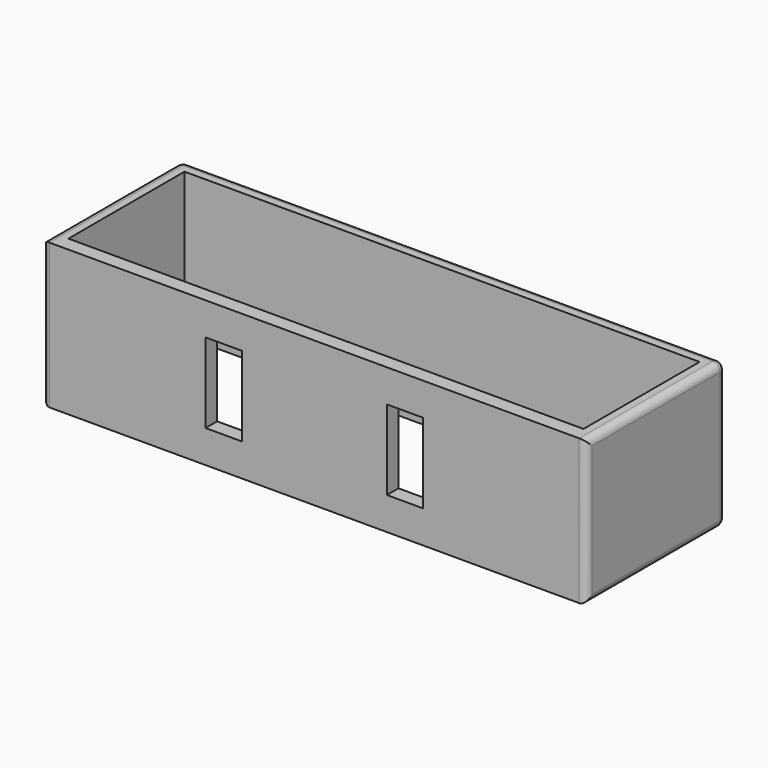
from build123d import *

# Parameters (mm, degrees)
F0_W     = 75
F0_H     = 20
F1_DEPTH = 24
F2_W     = 71
F2_H     = 20
F3_DEPTH = 20
F5_W     = 5
F5_H     = 11
F6_DEPTH = 5
F7_R     = 1


with BuildPart() as f1:
    # F0 (on Front) → F1 (new body)
    with BuildSketch(Plane.XZ):
        with Locations((37.5, -10)):
            Rectangle(F0_W, F0_H)
    extrude(amount=F1_DEPTH)

    # F2 (on Top) → F3 (cut, symmetric)
    with BuildSketch(Plane.XY):
        with Locations((37.5, -12)):
            Rectangle(F2_W, F2_H)
    extrude(amount=F3_DEPTH, both=True, mode=Mode.SUBTRACT)

    # F5 (on offset) → F6 (cut)
    with BuildSketch(Plane(origin=(0, -22, 0), x_dir=(-1, 0, 0), z_dir=(0, 1, 0))):
        with Locations((-25, -10)):
            Rectangle(F5_W, F5_H)
        with Locations((-50, -9.9999997467)):
            Rectangle(F5_W, F5_H)
    extrude(amount=-F6_DEPTH, mode=Mode.SUBTRACT)

    # F7
    f7_edges = [f1.edges().sort_by_distance(p)[0] for p in [
        (75, -12, -20),
        (75, -12, 0),
        (75, 0, -10),
        (75, -24, -10),
        (37.5, 0, 0),
        (0, 0, -10),
        (37.5, 0, -20),
        (0, -12, 0),
        (0, -12, -20),
        (0, -24, -10),
    ]]
    fillet(f7_edges, radius=F7_R)


solid = f1.part
